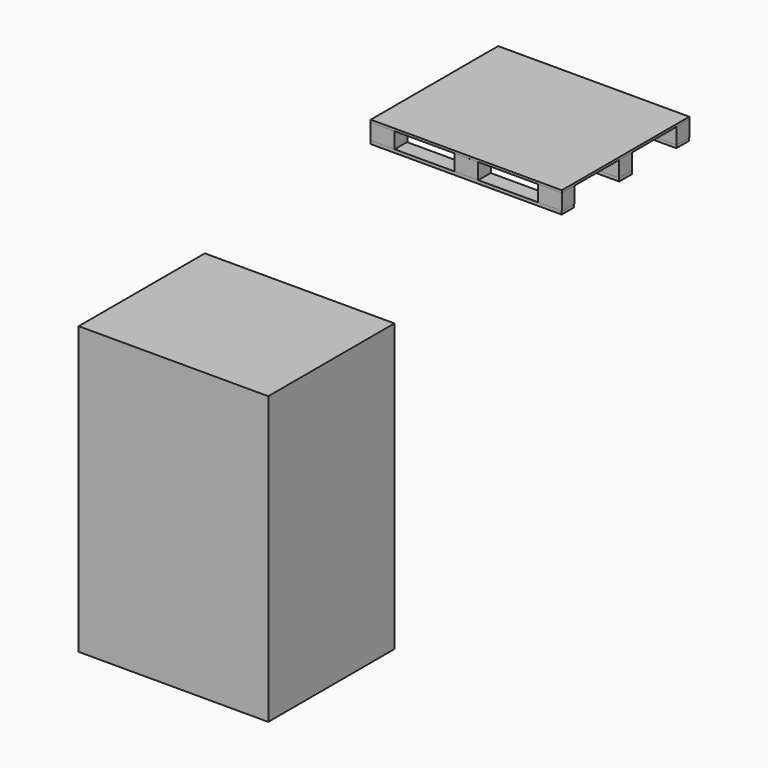
from build123d import *

# Parameters (mm, degrees)
F0_W     = 150
F0_H     = 100
F1_DEPTH = 100
F2_W     = 150
F2_H     = 100
F3_DEPTH = 15
F4_W     = 150
F4_H     = 97.4655151367
F4_W_2   = 1048.9593863487
F5_DEPTH = 20
F6_W     = 1199.8871326447
F6_H     = 98.7667553127
F7_DEPTH = 20
F6_W_2   = 1047.7310538292
F6_H_2   = 99.0744531155
F6_W_3   = 150
F8_W     = 1190
F8_H     = 990
F9_DEPTH = 1800


with BuildPart() as f1:
    # F0 (on Top) → F1 (new body)
    with BuildSketch(Plane.XY):
        with Locations((0, -450)):
            Rectangle(F0_W, F0_H)
    extrude(amount=F1_DEPTH)


with BuildPart() as f1b:
    # F0 (on Top) → F1, piece 2 (new body)
    with BuildSketch(Plane.XY):
        with Locations((-525, -450)):
            Rectangle(F0_W, F0_H)
    extrude(amount=F1_DEPTH)


with BuildPart() as f1c:
    # F0 (on Top) → F1, piece 3 (new body)
    with BuildSketch(Plane.XY):
        with Locations((-525, 0)):
            Rectangle(F0_W, F0_H)
    extrude(amount=F1_DEPTH)


with BuildPart() as f1d:
    # F0 (on Top) → F1, piece 4 (new body)
    with BuildSketch(Plane.XY):
        with Locations((-525, 450)):
            Rectangle(F0_W, F0_H)
    extrude(amount=F1_DEPTH)


with BuildPart() as f1e:
    # F0 (on Top) → F1, piece 5 (new body)
    with BuildSketch(Plane.XY):
        with Locations((0, 450)):
            Rectangle(F0_W, F0_H)
    extrude(amount=F1_DEPTH)


with BuildPart() as f1f:
    # F0 (on Top) → F1, piece 6 (new body)
    with BuildSketch(Plane.XY):
        Rectangle(F0_W, F0_H)
    extrude(amount=F1_DEPTH)


with BuildPart() as f1g:
    # F0 (on Top) → F1, piece 7 (new body)
    with BuildSketch(Plane.XY):
        with Locations((525, 0)):
            Rectangle(F0_W, F0_H)
    extrude(amount=F1_DEPTH)


with BuildPart() as f1h:
    # F0 (on Top) → F1, piece 8 (new body)
    with BuildSketch(Plane.XY):
        with Locations((525, 450)):
            Rectangle(F0_W, F0_H)
    extrude(amount=F1_DEPTH)


with BuildPart() as f1i:
    # F0 (on Top) → F1, piece 9 (new body)
    with BuildSketch(Plane.XY):
        with Locations((525, -450)):
            Rectangle(F0_W, F0_H)
    extrude(amount=F1_DEPTH)


with BuildPart() as f3:
    # F2 (on face) → F3 (new body)
    with BuildSketch(Plane.XY.offset(100)):
        Polygon((450, 400), (450, 500), (-599.9894738197, 500), (-599.9894738197, -499.98909235), (600, -499.98909235), (600, 400), align=None)
        with Locations((525, 450)):
            Rectangle(F2_W, F2_H)
    extrude(amount=F3_DEPTH)


with BuildPart() as f5:
    # F4 (on face) → F5 (new body)
    with BuildSketch(Plane(origin=(0, 0, 0), x_dir=(1, 0, 0), z_dir=(0, 0, -1))):
        with Locations((-525, 451.2672424316)):
            Rectangle(F4_W, F4_H)
        with Locations((74.4796931744, 451.2672424316)):
            Rectangle(F4_W_2, F4_H)
    extrude(amount=F5_DEPTH)


with BuildPart() as f7:
    # F6 (on face) → F7 (new body)
    with BuildSketch(Plane(origin=(0, 0, 0), x_dir=(1, 0, 0), z_dir=(0, 0, -1))):
        with Locations((-0.0564336777, 0.5671847612)):
            Rectangle(F6_W, F6_H)
    extrude(amount=F7_DEPTH)


with BuildPart() as f7b:
    # F6 (on face) → F7, piece 2 (new body)
    with BuildSketch(Plane(origin=(0, 0, 0), x_dir=(1, 0, 0), z_dir=(0, 0, -1))):
        with Locations((73.8655269146, -450.4627734423)):
            Rectangle(F6_W_2, F6_H_2)
        with Locations((-525, -450.4627734423)):
            Rectangle(F6_W_3, F6_H_2)
    extrude(amount=F7_DEPTH)


with BuildPart() as f9:
    # F8 (on face) → F9 (new body)
    with BuildSketch(Plane.XY.offset(115)):
        with Locations((246.8504321575, -2611.3373088837)):
            Rectangle(F8_W, F8_H)
    extrude(amount=-F9_DEPTH)


solid = Compound([f1.part, f1b.part, f1c.part, f1d.part, f1e.part, f1f.part, f1g.part, f1h.part, f1i.part, f3.part, f5.part, f7.part, f7b.part, f9.part])
